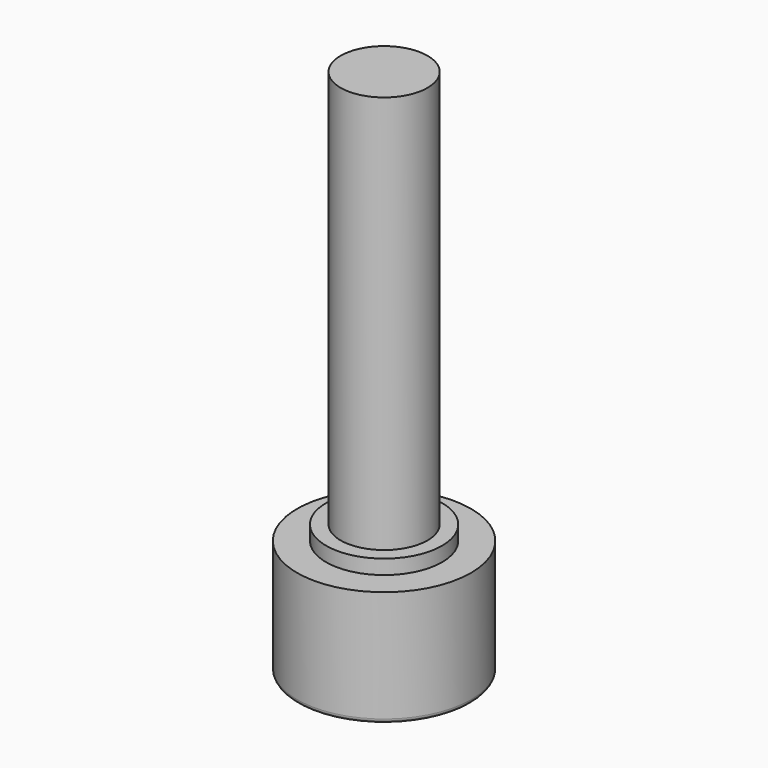
from build123d import *

# Parameters (mm, degrees)
SKETCH_R     = 12
PAD_DEPTH    = 16
POCKET_DEPTH = 8
FILLET_R     = 0.6
SKETCH002_R  = 8
PAD001_DEPTH = 2
SKETCH003_R  = 6
PAD002_DEPTH = 55


with BuildPart() as part:
    # Sketch → Pad (new body)
    with BuildSketch(Plane.XY):
        Circle(SKETCH_R)
    extrude(amount=PAD_DEPTH)

    # Sketch001 (on Face2 of Pad) → Pocket (cut)
    with BuildSketch(Plane(origin=(0, 0, 0), x_dir=(1, 0, 0), z_dir=(0, 0, -1))):
        Polygon((0, -8.082904), (7, -4.041452), (7, 4.041452), (0, 8.082904), (-7, 4.041452), (-7, -4.041452), align=None)
    extrude(amount=-POCKET_DEPTH, mode=Mode.SUBTRACT)

    # Fillet
    fillet_edges = [part.edges().sort_by_distance(p)[0] for p in [
        (-12, 0, 0),
    ]]
    fillet(fillet_edges, radius=FILLET_R)

    # Sketch002 (on Face3 of Fillet) → Pad001 (join)
    with BuildSketch(Plane.XY.offset(16)):
        Circle(SKETCH002_R)
    extrude(amount=PAD001_DEPTH)

    # Sketch003 (on Face12 of Pad001) → Pad002 (join)
    with BuildSketch(Plane.XY.offset(18)):
        Circle(SKETCH003_R)
    extrude(amount=PAD002_DEPTH)


solid = part.part
